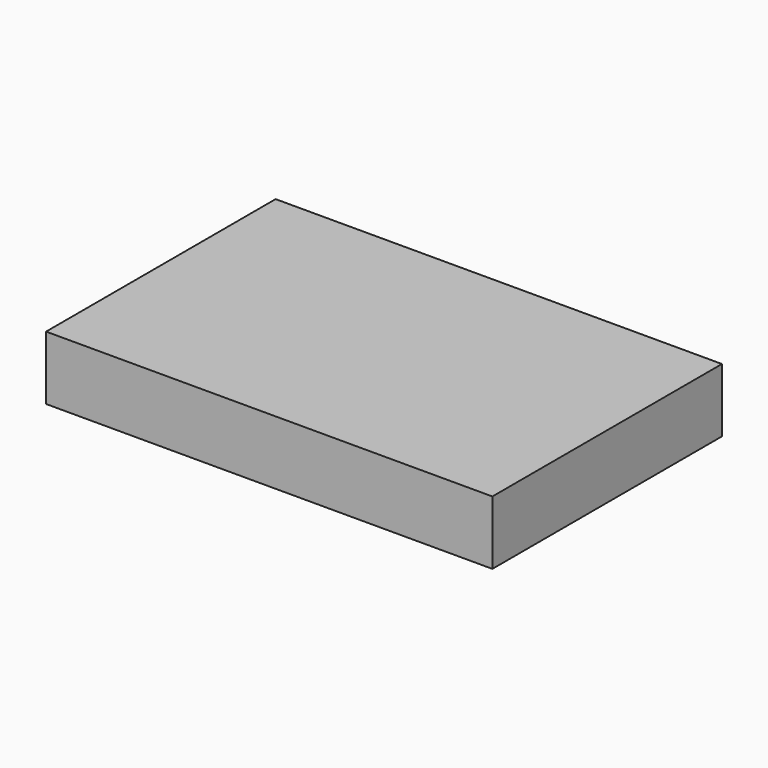
from build123d import *

# Parameters (mm, degrees)
F1_W     = 177.8
F1_H     = 114.3
F2_DEPTH = 25.4


with BuildPart() as f2:
    # F1 (on face) → F2 (new body)
    with BuildSketch(Plane.XY):
        with Locations((-1.781924, 30.239664)):
            Rectangle(F1_W, F1_H)
    extrude(amount=F2_DEPTH)


solid = f2.part
